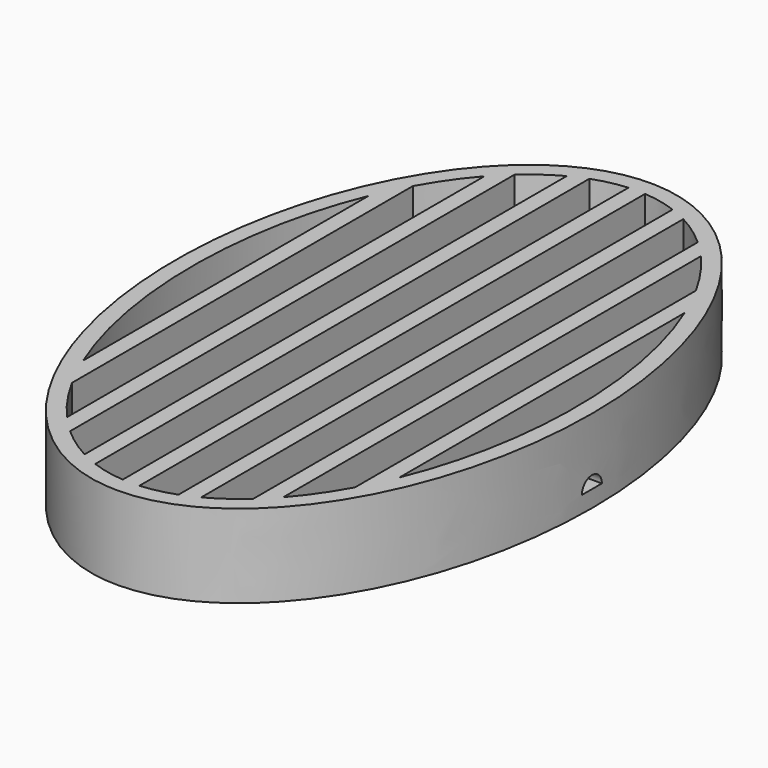
from build123d import *

# Parameters (mm, degrees)
F1_DEPTH = 10
F3_DEPTH = 8
F5_DEPTH = 50


with BuildPart() as f1:
    # F0 (on Top) → F1 (new body)
    with BuildSketch(Plane.XY):
        with BuildLine():
            add(Edge.make_bspline(
                [(0, -40), (43.3012701892, -40), (21.6506350946, 20), (0, 80), (-21.6506350946, 20), (-43.3012701892, -40), (0, -40)],
                knots=[0, 0, 0, 2.0943951024, 2.0943951024, 4.1887902048, 4.1887902048, 6.2831853072, 6.2831853072, 6.2831853072], degree=2, weights=[1, 0.5, 1, 0.5, 1, 0.5, 1]))
        make_face()
    extrude(amount=F1_DEPTH)

    # F2 (on face) → F3 (cut)
    with BuildSketch(Plane.XY.offset(10)):
        with BuildLine():
            Line((-19, -21.4146214382), (-19, 21.4146214382))
            add(Edge.make_bspline(
                [(-19, 21.4146214382), (-27.8421052632, 0), (-19, -21.4146214382)],
                knots=[4.1137209275, 4.1137209275, 4.1137209275, 5.3110570332, 5.3110570332, 5.3110570332], degree=2, weights=[1, 0.8260869565, 1]))
        make_face()
        with BuildLine():
            add(Edge.make_bspline(
                [(-13, 31.3477959356), (-15.2020410289, 28.8550772506), (-17, 25.595368201)],
                knots=[3.7422894065, 3.7422894065, 3.7422894065, 3.9733711014, 3.9733711014, 3.9733711014], degree=2, weights=[1, 0.9933325786, 1]))
            Line((-17, 25.595368201), (-17, -25.595368201))
            add(Edge.make_bspline(
                [(-17, -25.595368201), (-15.2020410289, -28.8550772506), (-13, -31.3477959356)],
                knots=[5.4514068594, 5.4514068594, 5.4514068594, 5.6824885542, 5.6824885542, 5.6824885542], degree=2, weights=[1, 0.9933325786, 1]))
            Line((-13, -31.3477959356), (-13, 31.3477959356))
        make_face()
        with BuildLine():
            Line((-11, 33.3722771876), (-11, -33.3722771876))
            add(Edge.make_bspline(
                [(-11, -33.3722771876), (-9.0812147806, -35.0986903109), (-7, -36.1973168438)],
                knots=[5.7845119601, 5.7845119601, 5.7845119601, 5.9739316061, 5.9739316061, 5.9739316061], degree=2, weights=[1, 0.9955183762, 1]))
            Line((-7, -36.1973168438), (-7, 36.1973168438))
            add(Edge.make_bspline(
                [(-7, 36.1973168438), (-9.0812147806, 35.0986903109), (-11, 33.3722771876)],
                knots=[3.4508463547, 3.4508463547, 3.4508463547, 3.6402660007, 3.6402660007, 3.6402660007], degree=2, weights=[1, 0.9955183762, 1]))
        make_face()
        with BuildLine():
            Line((-5, 37.0912123558), (-5, -37.0912123558))
            add(Edge.make_bspline(
                [(-5, -37.0912123558), (-3.0232589592, -37.8185905475), (-1, -37.9640661858)],
                knots=[6.0640442482, 6.0640442482, 6.0640442482, 6.2396933364, 6.2396933364, 6.2396933364], degree=2, weights=[1, 0.996145903, 1]))
            Line((-1, -37.9640661858), (-1, 37.9640661858))
            add(Edge.make_bspline(
                [(-1, 37.9640661858), (-3.0232589592, 37.8185905475), (-5, 37.0912123558)],
                knots=[3.1850846244, 3.1850846244, 3.1850846244, 3.3607337126, 3.3607337126, 3.3607337126], degree=2, weights=[1, 0.996145903, 1]))
        make_face()
        with BuildLine():
            Line((1, 37.9640661858), (1, -37.9640661858))
            add(Edge.make_bspline(
                [(1, -37.9640661858), (3.0232589592, -37.8185905475), (5, -37.0912123558)],
                knots=[0.0434919708, 0.0434919708, 0.0434919708, 0.219141059, 0.219141059, 0.219141059], degree=2, weights=[1, 0.996145903, 1]))
            Line((5, -37.0912123558), (5, 37.0912123558))
            add(Edge.make_bspline(
                [(5, 37.0912123558), (3.0232589592, 37.8185905475), (1, 37.9640661858)],
                knots=[2.9224515946, 2.9224515946, 2.9224515946, 3.0981006828, 3.0981006828, 3.0981006828], degree=2, weights=[1, 0.996145903, 1]))
        make_face()
        with BuildLine():
            add(Edge.make_bspline(
                [(11, 33.3722771876), (9.0812147806, 35.0986903109), (7, 36.1973168438)],
                knots=[2.6429193065, 2.6429193065, 2.6429193065, 2.8323389525, 2.8323389525, 2.8323389525], degree=2, weights=[1, 0.9955183762, 1]))
            Line((7, 36.1973168438), (7, -36.1973168438))
            add(Edge.make_bspline(
                [(7, -36.1973168438), (9.0812147806, -35.0986903109), (11, -33.3722771876)],
                knots=[0.3092537011, 0.3092537011, 0.3092537011, 0.4986733471, 0.4986733471, 0.4986733471], degree=2, weights=[1, 0.9955183762, 1]))
            Line((11, -33.3722771876), (11, 33.3722771876))
        make_face()
        with BuildLine():
            Line((13, 31.3477959356), (13, -31.3477959356))
            add(Edge.make_bspline(
                [(13, -31.3477959356), (15.2020410289, -28.8550772506), (17, -25.595368201)],
                knots=[0.6006967529, 0.6006967529, 0.6006967529, 0.8317784478, 0.8317784478, 0.8317784478], degree=2, weights=[1, 0.9933325786, 1]))
            Line((17, -25.595368201), (17, 25.595368201))
            add(Edge.make_bspline(
                [(17, 25.595368201), (15.2020410289, 28.8550772506), (13, 31.3477959356)],
                knots=[2.3098142058, 2.3098142058, 2.3098142058, 2.5408959007, 2.5408959007, 2.5408959007], degree=2, weights=[1, 0.9933325786, 1]))
        make_face()
        with BuildLine():
            add(Edge.make_bspline(
                [(19, -21.4146214382), (27.8421052632, 0), (19, 21.4146214382)],
                knots=[0.972128274, 0.972128274, 0.972128274, 2.1694643796, 2.1694643796, 2.1694643796], degree=2, weights=[1, 0.8260869565, 1]))
            Line((19, 21.4146214382), (19, -21.4146214382))
        make_face()
    extrude(amount=-F3_DEPTH, mode=Mode.SUBTRACT)

    # F4 (on Right) → F5 (cut, symmetric)
    with BuildSketch(Plane.YZ):
        with BuildLine():
            ThreePointArc((1.5, 2), (0, 3.5), (-1.5, 2))
            Line((-1.5, 2), (1.5, 2))
        make_face()
    extrude(amount=F5_DEPTH, both=True, mode=Mode.SUBTRACT)


solid = f1.part
